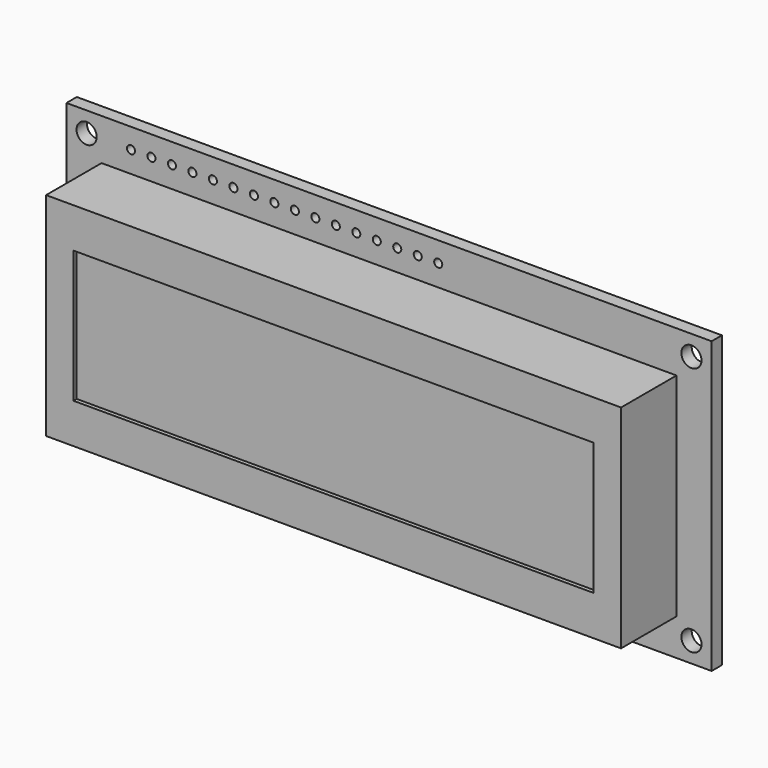
from build123d import *

# Parameters (mm, degrees)
F0_W      = 80
F0_H      = 36
F1_DEPTH  = 1.6
F2_W      = 71.3
F2_H      = 26.3
F3_DEPTH  = 8.6
F4_W      = 64.5
F4_H      = 16.4
F5_DEPTH  = 0.5
F6_R      = 1.25
F7_DEPTH  = 1.601
F8_R      = 0.5
F9_DEPTH  = 1.601
F10_R     = 4.646555
F10_R_2   = 6.155936
F11_DEPTH = 3.3


with BuildPart() as f1:
    # F0 (on Front) → F1 (new body)
    with BuildSketch(Plane.XZ):
        with Locations((35.905228, 13.74974)):
            Rectangle(F0_W, F0_H)
    extrude(amount=F1_DEPTH)

    # F2 (on face) → F3 (join)
    with BuildSketch(Plane.XZ.offset(1.6)):
        with Locations((35.905228, 13.44974)):
            Rectangle(F2_W, F2_H)
    extrude(amount=F3_DEPTH)

    # F4 (on face) → F5 (cut)
    with BuildSketch(Plane.XZ.offset(10.2)):
        with Locations((35.905228, 13.44974)):
            Rectangle(F4_W, F4_H)
    extrude(amount=-F5_DEPTH, mode=Mode.SUBTRACT)

    # F6 (on face) → F7 (cut, through all)
    with BuildSketch(Plane.XZ.offset(1.6)):
        with Locations((-1.594772, 29.24974)):
            Circle(F6_R)
        with Locations((73.405228, 29.24974)):
            Circle(F6_R)
        with Locations((73.405228, -1.75026)):
            Circle(F6_R)
        with Locations((-1.594772, -1.75026)):
            Circle(F6_R)
    extrude(amount=-F7_DEPTH, mode=Mode.SUBTRACT)

    # F8 (on face) → F9 (cut, through all)
    with BuildSketch(Plane.XZ.offset(1.6)):
        with Locations((3.905228, 29.24974)):
            Circle(F8_R)
        with Locations((6.445228, 29.24974)):
            Circle(F8_R)
        with Locations((8.985228, 29.24974)):
            Circle(F8_R)
        with Locations((11.525228, 29.24974)):
            Circle(F8_R)
        with Locations((14.065228, 29.24974)):
            Circle(F8_R)
        with Locations((16.605228, 29.24974)):
            Circle(F8_R)
        with Locations((19.145228, 29.24974)):
            Circle(F8_R)
        with Locations((21.685228, 29.24974)):
            Circle(F8_R)
        with Locations((24.225228, 29.24974)):
            Circle(F8_R)
        with Locations((26.765228, 29.24974)):
            Circle(F8_R)
        with Locations((29.305228, 29.24974)):
            Circle(F8_R)
        with Locations((31.845228, 29.24974)):
            Circle(F8_R)
        with Locations((34.385228, 29.24974)):
            Circle(F8_R)
        with Locations((36.925228, 29.24974)):
            Circle(F8_R)
        with Locations((39.465228, 29.24974)):
            Circle(F8_R)
        with Locations((42.005228, 29.24974)):
            Circle(F8_R)
    extrude(amount=-F9_DEPTH, mode=Mode.SUBTRACT)

    # F10 (on face) → F11 (join)
    with BuildSketch(Plane(origin=(0, 0, 0), x_dir=(-1, 0, 0), z_dir=(0, 1, 0))):
        with Locations((-53.529158, 13.976525)):
            Circle(F10_R)
        with Locations((-19.490262, 14.239374)):
            Circle(F10_R_2)
    extrude(amount=F11_DEPTH)


solid = f1.part
